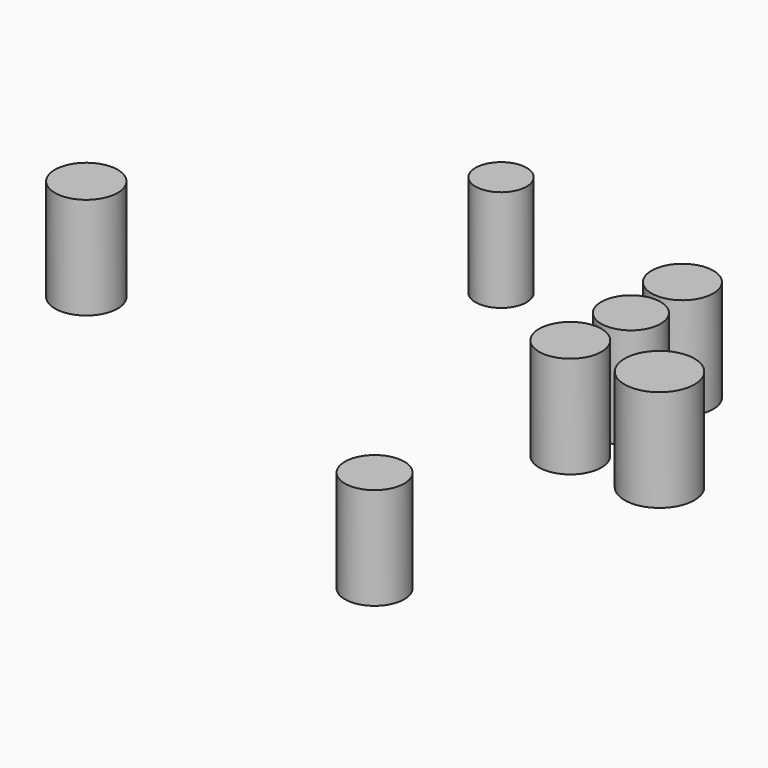
from build123d import *

# Parameters (mm, degrees)
F0_R     = 7.928984
F0_R_2   = 7.628639
F0_R_3   = 8.003643
F0_R_4   = 8.979148
F0_R_5   = 7.628641
F0_R_6   = 6.550097
F0_R_7   = 8.061809
F1_DEPTH = 26.162


with BuildPart() as f1:
    # F0 (on Top) → F1 (new body)
    with BuildSketch(Plane.XY):
        with Locations((24.775406, 52.028358)):
            Circle(F0_R)
        with Locations((25.066888, 35.122786)):
            Circle(F0_R_2)
        with Locations((23.026556, 18.217213)):
            Circle(F0_R_3)
        with Locations((45.470163, 18.800164)):
            Circle(F0_R_4)
        with Locations((28.273117, -51.153935)):
            Circle(F0_R_5)
        with Locations((-32.062296, 64.853281)):
            Circle(F0_R_6)
        with Locations((-95.89541, 11.513279)):
            Circle(F0_R_7)
    extrude(amount=F1_DEPTH)


solid = f1.part
